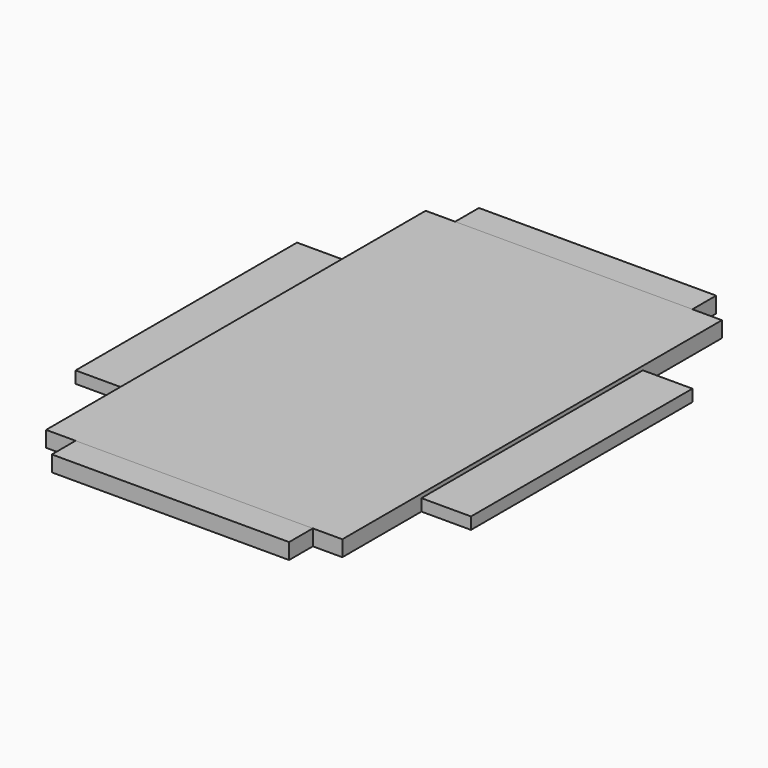
from build123d import *

# Parameters (mm, degrees)
F0_W     = 30
F0_H     = 35
F1_DEPTH = 2
F2_W     = 30
F2_H     = 67.5
F3_DEPTH = 2
F4_W     = 50
F4_H     = 35
F5_DEPTH = 1.5
F6_W     = 37.461
F6_H     = 60
F7_DEPTH = 2


with BuildPart() as f1:
    # F0 (on Top) → F1 (new body)
    with BuildSketch(Plane.XY):
        Rectangle(F0_W, F0_H)
    extrude(amount=F1_DEPTH)


with BuildPart() as f3:
    # F2 (on Top) → F3 (new body)
    with BuildSketch(Plane.XY):
        Rectangle(F2_W, F2_H)
    extrude(amount=F3_DEPTH)


with BuildPart() as f5:
    # F4 (on Top) → F5 (new body)
    with BuildSketch(Plane.XY):
        Rectangle(F4_W, F4_H)
    extrude(amount=F5_DEPTH)


with BuildPart() as f7:
    # F6 (on Top) → F7 (new body)
    with BuildSketch(Plane.XY):
        Rectangle(F6_W, F6_H)
    extrude(amount=F7_DEPTH)


solid = Compound([f1.part, f3.part, f5.part, f7.part])
